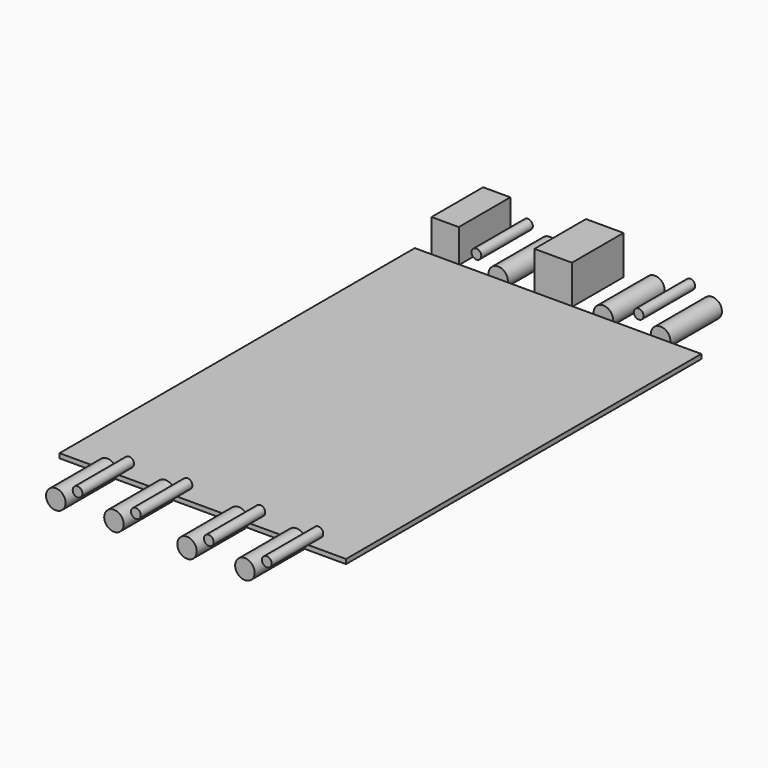
from build123d import *

# Parameters (mm, degrees)
F2_W     = 100
F2_H     = 155
F3_DEPTH = 1.6
F4_START = 77.5
F0_R     = 3.4
F4_DEPTH = 22.5
F0_R_2   = 1.7
F5_START = -77.5
F1_R     = 1.7
F5_DEPTH = 22.5
F1_R_2   = 3.4
F1_W     = 13.1
F1_H     = 13.6
F1_W_2   = 9.5
F1_H_2   = 11.7


with BuildPart() as f3:
    # F2 (on Top) → F3 (new body, through all)
    with BuildSketch(Plane.XY):
        Rectangle(F2_W, F2_H)
    extrude(amount=F3_DEPTH)

    # F0 (on Front) → F4 (join)
    with BuildSketch(Plane.XZ.offset(F4_START)):
        with Locations((-33.3, 2)):
            Circle(F0_R)
        with Locations((-13, 2)):
            Circle(F0_R)
        with Locations((12.5, 2)):
            Circle(F0_R)
        with Locations((32.7, 2)):
            Circle(F0_R)
    extrude(amount=F4_DEPTH)

    # F1 (on Front) → F5, piece 3 (join)
    with BuildSketch(Plane.XZ.offset(F5_START)):
        with Locations((35.8, 2)):
            Circle(F1_R_2)
        with Locations((15.8, 2)):
            Circle(F1_R_2)
        with Locations((-20.9, 2)):
            Circle(F1_R_2)
        with Locations((-1.7, 8.15)):
            Rectangle(F1_W, F1_H)
        with Locations((-39.4, 7.2)):
            Rectangle(F1_W_2, F1_H_2)
    extrude(amount=-F5_DEPTH)


with BuildPart() as f4:
    # F0 (on Front) → F4, piece 2 (new body)
    with BuildSketch(Plane.XZ.offset(F4_START)):
        with Locations((-25.7, 6.75)):
            Circle(F0_R_2)
    extrude(amount=F4_DEPTH)


with BuildPart() as f4b:
    # F0 (on Front) → F4, piece 3 (new body)
    with BuildSketch(Plane.XZ.offset(F4_START)):
        with Locations((-5.35, 6.75)):
            Circle(F0_R_2)
    extrude(amount=F4_DEPTH)


with BuildPart() as f4c:
    # F0 (on Front) → F4, piece 4 (new body)
    with BuildSketch(Plane.XZ.offset(F4_START)):
        with Locations((20.1, 6.75)):
            Circle(F0_R_2)
    extrude(amount=F4_DEPTH)


with BuildPart() as f4d:
    # F0 (on Front) → F4, piece 5 (new body)
    with BuildSketch(Plane.XZ.offset(F4_START)):
        with Locations((40.35, 6.75)):
            Circle(F0_R_2)
    extrude(amount=F4_DEPTH)


with BuildPart() as f5:
    # F1 (on Front) → F5 (new body)
    with BuildSketch(Plane.XZ.offset(F5_START)):
        with Locations((28.15, 6.75)):
            Circle(F1_R)
    extrude(amount=-F5_DEPTH)


with BuildPart() as f5b:
    # F1 (on Front) → F5, piece 2 (new body)
    with BuildSketch(Plane.XZ.offset(F5_START)):
        with Locations((-28.5, 6.75)):
            Circle(F1_R)
    extrude(amount=-F5_DEPTH)


solid = Compound([f3.part, f4.part, f4b.part, f4c.part, f4d.part, f5.part, f5b.part])
